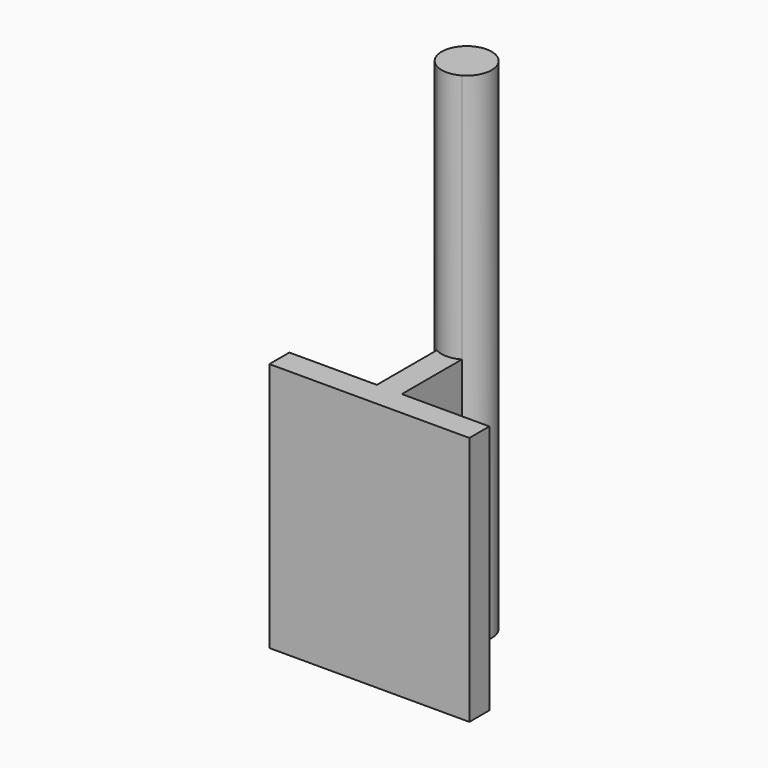
from build123d import *

# Parameters (mm, degrees)
F1_DEPTH = 50
F2_DEPTH = 100


with BuildPart() as f1:
    # F0 (on Top) → F1 (new body)
    with BuildSketch(Plane.XY):
        Polygon((-2.5, 5), (-20, 5), (-20, 0), (20, 0), (20, 5), (2.5, 5), align=None)
        with BuildLine():
            Line((-2.5, 20), (-2.5, 5))
            Line((-2.5, 5), (2.5, 5))
            Line((2.5, 5), (2.5, 20))
            ThreePointArc((2.5, 20), (0, 19.330127), (-2.5, 20))
        make_face()
        with BuildLine():
            ThreePointArc((5, 24.330127), (-2.5, 28.660254), (-2.5, 20))
            Line((-2.5, 20), (2.5, 20))
            ThreePointArc((2.5, 20), (4.330127, 21.830127), (5, 24.330127))
        make_face()
        with BuildLine():
            Line((2.5, 20), (-2.5, 20))
            ThreePointArc((-2.5, 20), (0, 19.330127), (2.5, 20))
        make_face()
    extrude(amount=F1_DEPTH)

    # F0 (on Top) → F2 (join)
    with BuildSketch(Plane.XY):
        with BuildLine():
            Line((2.5, 20), (-2.5, 20))
            ThreePointArc((-2.5, 20), (0, 19.330127), (2.5, 20))
        make_face()
        with BuildLine():
            ThreePointArc((5, 24.330127), (-2.5, 28.660254), (-2.5, 20))
            Line((-2.5, 20), (2.5, 20))
            ThreePointArc((2.5, 20), (4.330127, 21.830127), (5, 24.330127))
        make_face()
    extrude(amount=F2_DEPTH)


solid = f1.part
